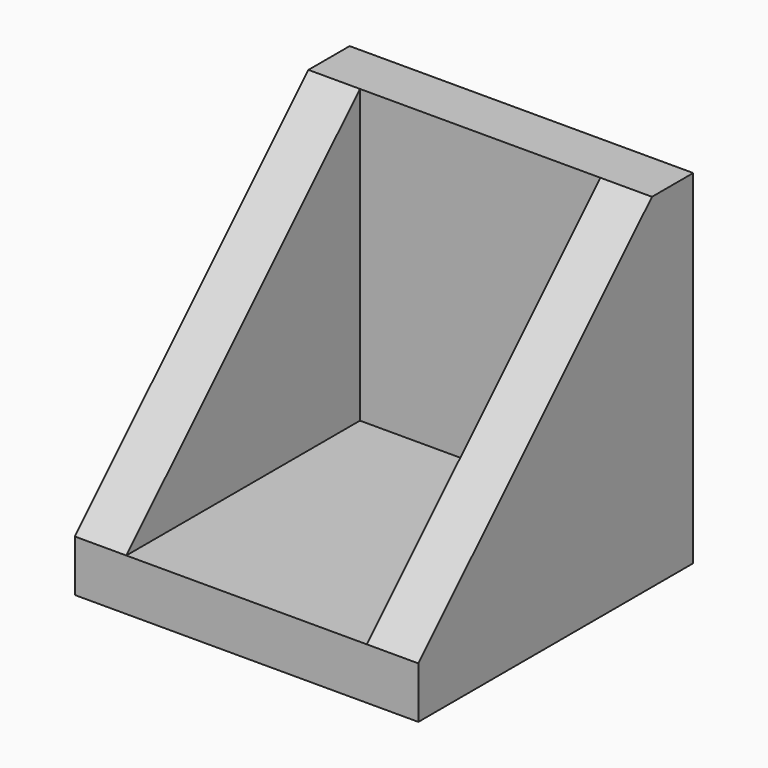
from build123d import *

# Parameters (mm, degrees)
F0_W     = 3
F0_H     = 17
F0_H_2   = 3
F0_W_2   = 14
F1_DEPTH = 20
F2_DEPTH = 3
F3_SIZE  = 17


with BuildPart() as f1:
    # F0 (on Front) → F1 (new body)
    with BuildSketch(Plane.XZ):
        with Locations((18.5, 11.5)):
            Rectangle(F0_W, F0_H)
        with Locations((1.5, 11.5)):
            Rectangle(F0_W, F0_H)
        with Locations((1.5, 1.5)):
            Rectangle(F0_W, F0_H_2)
        with Locations((10, 1.5)):
            Rectangle(F0_W_2, F0_H_2)
        with Locations((18.5, 1.5)):
            Rectangle(F0_W, F0_H_2)
    extrude(amount=F1_DEPTH)

    # F0 (on Front) → F2 (join)
    with BuildSketch(Plane.XZ):
        with Locations((10, 11.5)):
            Rectangle(F0_W_2, F0_H)
        with BuildLine():
            ThreePointArc((13, 8.5), (10, 5.5), (7, 8.5))
            Line((7, 8.5), (7, 11.5))
            ThreePointArc((7, 11.5), (10, 14.5), (13, 11.5))
            Line((13, 11.5), (13, 8.5))
        make_face(mode=Mode.SUBTRACT)
        with BuildLine():
            ThreePointArc((7.4019237886, 10), (7.1022225211, 9.2764571353), (7, 8.5))
            ThreePointArc((7, 8.5), (10, 5.5), (13, 8.5))
            ThreePointArc((13, 8.5), (12.8977774789, 9.2764571353), (12.5980762114, 10))
            ThreePointArc((12.5980762114, 10), (10, 8.5), (7.4019237886, 10))
        make_face()
        with BuildLine():
            ThreePointArc((12.5980762114, 10), (10, 11.5), (7.4019237886, 10))
            ThreePointArc((7.4019237886, 10), (10, 8.5), (12.5980762114, 10))
        make_face()
        with BuildLine():
            ThreePointArc((7, 11.5), (7.1022225211, 10.7235428647), (7.4019237886, 10))
            ThreePointArc((7.4019237886, 10), (10, 11.5), (12.5980762114, 10))
            ThreePointArc((12.5980762114, 10), (12.8977774789, 10.7235428647), (13, 11.5))
            ThreePointArc((13, 11.5), (10, 14.5), (7, 11.5))
        make_face()
        with BuildLine():
            ThreePointArc((12.5980762114, 10), (12.8977774789, 9.2764571353), (13, 8.5))
            Line((13, 8.5), (13, 11.5))
            ThreePointArc((13, 11.5), (12.8977774789, 10.7235428647), (12.5980762114, 10))
        make_face()
        with BuildLine():
            Line((7, 11.5), (7, 8.5))
            ThreePointArc((7, 8.5), (7.1022225211, 9.2764571353), (7.4019237886, 10))
            ThreePointArc((7.4019237886, 10), (7.1022225211, 10.7235428647), (7, 11.5))
        make_face()
    extrude(amount=F2_DEPTH)

    # F3
    f3_edges = [f1.edges().sort_by_distance(p)[0] for p in [
        (1.5, -20, 20),
        (18.5, -20, 20),
    ]]
    chamfer(f3_edges, length=F3_SIZE)


solid = f1.part
